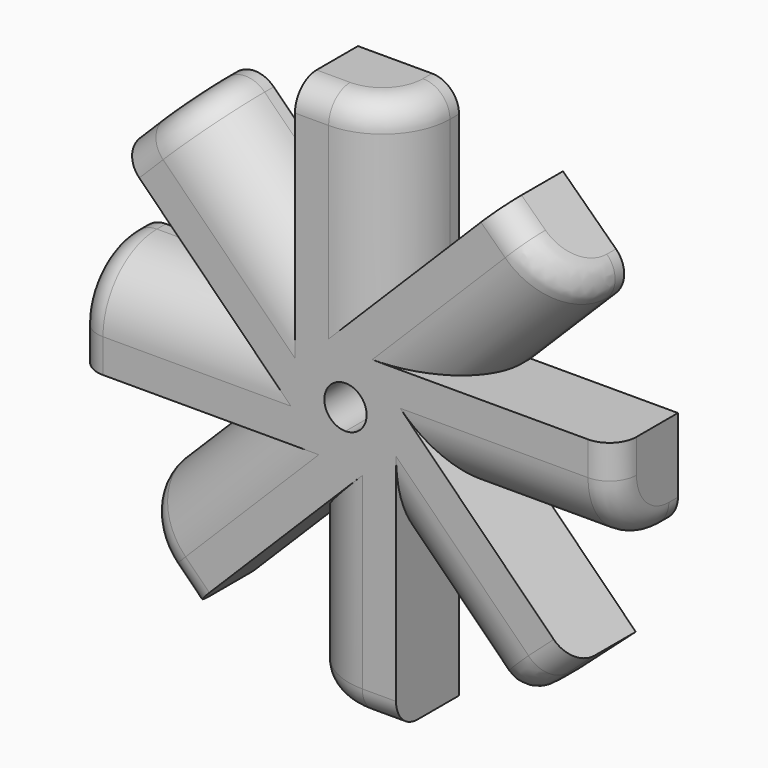
from build123d import *

# Parameters (mm, degrees)
F1_DEPTH = 5.842
F2_R     = 5
F3_R     = 2


with BuildPart() as f1:
    # F0 (on Front) → F1 (new body)
    with BuildSketch(Plane.XZ):
        Polygon((0, 5.3033008589), (3.75, 9.0533008589), (3.75, 20), (-3.75, 20), (-3.75, 9.0533008589), align=None)
        Polygon((3.75, -20), (3.75, -9.0533008589), (0, -5.3033008589), (-3.75, -9.0533008589), (-3.75, -20), align=None)
        Polygon((-3.75, 3.75), (-3.75, 9.0533008589), (-11.4148991575, 16.7182000164), (-16.7182000164, 11.4148991575), (-9.0533008589, 3.75), align=None)
        Polygon((-11.5137192974, -16.8170201563), (-3.75, -9.0533008589), (-3.75, -3.75), (-9.0533008589, -3.75), (-16.8170201563, -11.5137192974), align=None)
        Polygon((3.75, 9.0533008589), (3.75, 3.75), (9.0533008589, 3.75), (16.8634883625, 11.5601875036), (11.4672510912, 16.7705519501), align=None)
        Polygon((16.86937209, -11.5660712311), (9.0533008589, -3.75), (3.75, -3.75), (3.75, -9.0533008589), (11.2637270839, -16.5670279428), align=None)
        Polygon((-9.0533008589, -3.75), (-5.3033008589, 0), (-9.0533008589, 3.75), (-20, 3.75), (-20, -3.75), align=None)
        Polygon((9.0533008589, 3.75), (5.3033008589, 0), (9.0533008589, -3.75), (20, -3.75), (20, 3.75), align=None)
        with BuildLine():
            ThreePointArc((3.75, 3.3071891388), (4.6193976626, 1.9134171618), (4.9901862962, 0.3131145627))
            Line((4.9901862962, 0.3131145627), (5.3033008589, 0))
            Line((5.3033008589, 0), (9.0533008589, 3.75))
            Line((9.0533008589, 3.75), (3.75, 3.75))
            Line((3.75, 3.75), (3.75, 3.3071891388))
        make_face()
        with BuildLine():
            ThreePointArc((0.3131145627, 4.9901862962), (1.9134171618, 4.6193976626), (3.3071891388, 3.75))
            Line((3.3071891388, 3.75), (3.75, 3.75))
            Line((3.75, 3.75), (3.75, 9.0533008589))
            Line((3.75, 9.0533008589), (0, 5.3033008589))
            Line((0, 5.3033008589), (0.3131145627, 4.9901862962))
        make_face()
        with BuildLine():
            ThreePointArc((-3.3071891388, 3.75), (-1.9134171618, 4.6193976626), (-0.3131145627, 4.9901862962))
            Line((-0.3131145627, 4.9901862962), (0, 5.3033008589))
            Line((0, 5.3033008589), (-3.75, 9.0533008589))
            Line((-3.75, 9.0533008589), (-3.75, 3.75))
            Line((-3.75, 3.75), (-3.3071891388, 3.75))
        make_face()
        with BuildLine():
            ThreePointArc((-4.9901862962, 0.3131145627), (-4.6193976626, 1.9134171618), (-3.75, 3.3071891388))
            Line((-3.75, 3.3071891388), (-3.75, 3.75))
            Line((-3.75, 3.75), (-9.0533008589, 3.75))
            Line((-9.0533008589, 3.75), (-5.3033008589, 0))
            Line((-5.3033008589, 0), (-4.9901862962, 0.3131145627))
        make_face()
        with BuildLine():
            Line((-3.75, -3.75), (-3.75, -3.3071891388))
            ThreePointArc((-3.75, -3.3071891388), (-4.6193976626, -1.9134171618), (-4.9901862962, -0.3131145627))
            Line((-4.9901862962, -0.3131145627), (-5.3033008589, 0))
            Line((-5.3033008589, 0), (-9.0533008589, -3.75))
            Line((-9.0533008589, -3.75), (-3.75, -3.75))
        make_face()
        with BuildLine():
            Line((3.75, -3.75), (3.3071891388, -3.75))
            ThreePointArc((3.3071891388, -3.75), (1.9134171618, -4.6193976626), (0.3131145627, -4.9901862962))
            Line((0.3131145627, -4.9901862962), (0, -5.3033008589))
            Line((0, -5.3033008589), (3.75, -9.0533008589))
            Line((3.75, -9.0533008589), (3.75, -3.75))
        make_face()
        with BuildLine():
            Line((5.3033008589, 0), (4.9901862962, -0.3131145627))
            ThreePointArc((4.9901862962, -0.3131145627), (4.6193976626, -1.9134171618), (3.75, -3.3071891388))
            Line((3.75, -3.3071891388), (3.75, -3.75))
            Line((3.75, -3.75), (9.0533008589, -3.75))
            Line((9.0533008589, -3.75), (5.3033008589, 0))
        make_face()
        Polygon((0, 5.3033008589), (3.75, 9.0533008589), (3.75, 20), (-3.75, 20), (-3.75, 9.0533008589), align=None)
        Polygon((3.75, -20), (3.75, -9.0533008589), (0, -5.3033008589), (-3.75, -9.0533008589), (-3.75, -20), align=None)
        Polygon((-3.75, 3.75), (-3.75, 9.0533008589), (-11.4148991575, 16.7182000164), (-16.7182000164, 11.4148991575), (-9.0533008589, 3.75), align=None)
        Polygon((-11.5137192974, -16.8170201563), (-3.75, -9.0533008589), (-3.75, -3.75), (-9.0533008589, -3.75), (-16.8170201563, -11.5137192974), align=None)
        Polygon((3.75, 9.0533008589), (3.75, 3.75), (9.0533008589, 3.75), (16.8634883625, 11.5601875036), (11.4672510912, 16.7705519501), align=None)
        Polygon((16.86937209, -11.5660712311), (9.0533008589, -3.75), (3.75, -3.75), (3.75, -9.0533008589), (11.2637270839, -16.5670279428), align=None)
        Polygon((-9.0533008589, -3.75), (-5.3033008589, 0), (-9.0533008589, 3.75), (-20, 3.75), (-20, -3.75), align=None)
        Polygon((9.0533008589, 3.75), (5.3033008589, 0), (9.0533008589, -3.75), (20, -3.75), (20, 3.75), align=None)
        with BuildLine():
            ThreePointArc((3.75, 3.3071891388), (4.6193976626, 1.9134171618), (4.9901862962, 0.3131145627))
            Line((4.9901862962, 0.3131145627), (5.3033008589, 0))
            Line((5.3033008589, 0), (9.0533008589, 3.75))
            Line((9.0533008589, 3.75), (3.75, 3.75))
            Line((3.75, 3.75), (3.75, 3.3071891388))
        make_face()
        with BuildLine():
            ThreePointArc((0.3131145627, 4.9901862962), (1.9134171618, 4.6193976626), (3.3071891388, 3.75))
            Line((3.3071891388, 3.75), (3.75, 3.75))
            Line((3.75, 3.75), (3.75, 9.0533008589))
            Line((3.75, 9.0533008589), (0, 5.3033008589))
            Line((0, 5.3033008589), (0.3131145627, 4.9901862962))
        make_face()
        with BuildLine():
            ThreePointArc((-3.3071891388, 3.75), (-1.9134171618, 4.6193976626), (-0.3131145627, 4.9901862962))
            Line((-0.3131145627, 4.9901862962), (0, 5.3033008589))
            Line((0, 5.3033008589), (-3.75, 9.0533008589))
            Line((-3.75, 9.0533008589), (-3.75, 3.75))
            Line((-3.75, 3.75), (-3.3071891388, 3.75))
        make_face()
        with BuildLine():
            ThreePointArc((-4.9901862962, 0.3131145627), (-4.6193976626, 1.9134171618), (-3.75, 3.3071891388))
            Line((-3.75, 3.3071891388), (-3.75, 3.75))
            Line((-3.75, 3.75), (-9.0533008589, 3.75))
            Line((-9.0533008589, 3.75), (-5.3033008589, 0))
            Line((-5.3033008589, 0), (-4.9901862962, 0.3131145627))
        make_face()
        with BuildLine():
            Line((-3.75, -3.75), (-3.75, -3.3071891388))
            ThreePointArc((-3.75, -3.3071891388), (-4.6193976626, -1.9134171618), (-4.9901862962, -0.3131145627))
            Line((-4.9901862962, -0.3131145627), (-5.3033008589, 0))
            Line((-5.3033008589, 0), (-9.0533008589, -3.75))
            Line((-9.0533008589, -3.75), (-3.75, -3.75))
        make_face()
        with BuildLine():
            Line((0, -5.3033008589), (-0.3131145627, -4.9901862962))
            ThreePointArc((-0.3131145627, -4.9901862962), (-1.9134171618, -4.6193976626), (-3.3071891388, -3.75))
            Line((-3.3071891388, -3.75), (-3.75, -3.75))
            Line((-3.75, -3.75), (-3.75, -9.0533008589))
            Line((-3.75, -9.0533008589), (0, -5.3033008589))
        make_face()
        with BuildLine():
            Line((3.75, -3.75), (3.3071891388, -3.75))
            ThreePointArc((3.3071891388, -3.75), (1.9134171618, -4.6193976626), (0.3131145627, -4.9901862962))
            Line((0.3131145627, -4.9901862962), (0, -5.3033008589))
            Line((0, -5.3033008589), (3.75, -9.0533008589))
            Line((3.75, -9.0533008589), (3.75, -3.75))
        make_face()
        with BuildLine():
            Line((5.3033008589, 0), (4.9901862962, -0.3131145627))
            ThreePointArc((4.9901862962, -0.3131145627), (4.6193976626, -1.9134171618), (3.75, -3.3071891388))
            Line((3.75, -3.3071891388), (3.75, -3.75))
            Line((3.75, -3.75), (9.0533008589, -3.75))
            Line((9.0533008589, -3.75), (5.3033008589, 0))
        make_face()
        with BuildLine():
            ThreePointArc((-4.9901862962, 0.3131145627), (-4.6193976626, 1.9134171618), (-3.75, 3.3071891388))
            Line((-3.75, 3.3071891388), (-3.75, 3.75))
            Line((-3.75, 3.75), (-9.0533008589, 3.75))
            Line((-9.0533008589, 3.75), (-5.3033008589, 0))
            Line((-5.3033008589, 0), (-4.9901862962, 0.3131145627))
        make_face()
        with BuildLine():
            Line((-3.75, -3.3071891388), (-3.75, -1.5533008589))
            Line((-3.75, -1.5533008589), (-4.9901862962, -0.3131145627))
            ThreePointArc((-4.9901862962, -0.3131145627), (-4.6193976626, -1.9134171618), (-3.75, -3.3071891388))
        make_face()
        with BuildLine():
            ThreePointArc((-3.3071891388, 3.75), (-1.9134171618, 4.6193976626), (-0.3131145627, 4.9901862962))
            Line((-0.3131145627, 4.9901862962), (0, 5.3033008589))
            Line((0, 5.3033008589), (-3.75, 9.0533008589))
            Line((-3.75, 9.0533008589), (-3.75, 3.75))
            Line((-3.75, 3.75), (-3.3071891388, 3.75))
        make_face()
        with BuildLine():
            ThreePointArc((0.3131145627, 4.9901862962), (1.9134171618, 4.6193976626), (3.3071891388, 3.75))
            Line((3.3071891388, 3.75), (3.75, 3.75))
            Line((3.75, 3.75), (3.75, 9.0533008589))
            Line((3.75, 9.0533008589), (0, 5.3033008589))
            Line((0, 5.3033008589), (0.3131145627, 4.9901862962))
        make_face()
        with BuildLine():
            Line((-1.5533008589, 3.75), (1.5533008589, 3.75))
            Line((1.5533008589, 3.75), (0.3131145627, 4.9901862962))
            ThreePointArc((0.3131145627, 4.9901862962), (0, 5), (-0.3131145627, 4.9901862962))
            Line((-0.3131145627, 4.9901862962), (-1.5533008589, 3.75))
        make_face()
        with BuildLine():
            ThreePointArc((4.9901862962, -0.3131145627), (4.9975459718, -0.1566341583), (5, 0))
            ThreePointArc((5, 0), (4.9975459718, 0.1566341583), (4.9901862962, 0.3131145627))
            Line((4.9901862962, 0.3131145627), (3.75, 1.5533008589))
            Line((3.75, 1.5533008589), (3.75, -1.5533008589))
            Line((3.75, -1.5533008589), (4.9901862962, -0.3131145627))
        make_face()
        with BuildLine():
            Line((-3.75, -1.5533008589), (-3.75, 1.5533008589))
            Line((-3.75, 1.5533008589), (-4.9901862962, 0.3131145627))
            ThreePointArc((-4.9901862962, 0.3131145627), (-5, 0), (-4.9901862962, -0.3131145627))
            Line((-4.9901862962, -0.3131145627), (-3.75, -1.5533008589))
        make_face()
        with BuildLine():
            Line((3.75, -3.75), (3.3071891388, -3.75))
            ThreePointArc((3.3071891388, -3.75), (1.9134171618, -4.6193976626), (0.3131145627, -4.9901862962))
            Line((0.3131145627, -4.9901862962), (0, -5.3033008589))
            Line((0, -5.3033008589), (3.75, -9.0533008589))
            Line((3.75, -9.0533008589), (3.75, -3.75))
        make_face()
        with BuildLine():
            Line((0, -5.3033008589), (0.3131145627, -4.9901862962))
            ThreePointArc((0.3131145627, -4.9901862962), (0, -5), (-0.3131145627, -4.9901862962))
            Line((-0.3131145627, -4.9901862962), (0, -5.3033008589))
        make_face()
        with BuildLine():
            ThreePointArc((-3.75, 3.3071891388), (-3.5355339059, 3.5355339059), (-3.3071891388, 3.75))
            Line((-3.3071891388, 3.75), (-3.75, 3.75))
            Line((-3.75, 3.75), (-3.75, 3.3071891388))
        make_face()
        Polygon((3.75, -1.5533008589), (3.75, 1.5533008589), (1.5533008589, 3.75), (-1.5533008589, 3.75), (-3.75, 1.5533008589), (-3.75, -1.5533008589), (-1.5533008589, -3.75), (1.5533008589, -3.75), align=None)
        with BuildLine():
            ThreePointArc((0, 1.56845), (1.109061631, 1.109061631), (1.56845, 0))
            ThreePointArc((1.56845, 0), (1.109061631, -1.109061631), (0, -1.56845))
            ThreePointArc((0, -1.56845), (-1.56845, 0), (0, 1.56845))
        make_face(mode=Mode.SUBTRACT)
        with BuildLine():
            Line((-3.3071891388, -3.75), (-1.5533008589, -3.75))
            Line((-1.5533008589, -3.75), (-3.75, -1.5533008589))
            Line((-3.75, -1.5533008589), (-3.75, -3.3071891388))
            ThreePointArc((-3.75, -3.3071891388), (-3.5355339059, -3.5355339059), (-3.3071891388, -3.75))
        make_face()
        with BuildLine():
            ThreePointArc((3.75, 3.3071891388), (4.6193976626, 1.9134171618), (4.9901862962, 0.3131145627))
            Line((4.9901862962, 0.3131145627), (5.3033008589, 0))
            Line((5.3033008589, 0), (9.0533008589, 3.75))
            Line((9.0533008589, 3.75), (3.75, 3.75))
            Line((3.75, 3.75), (3.75, 3.3071891388))
        make_face()
        Polygon((3.75, -1.5533008589), (3.75, 1.5533008589), (1.5533008589, 3.75), (-1.5533008589, 3.75), (-3.75, 1.5533008589), (-3.75, -1.5533008589), (-1.5533008589, -3.75), (1.5533008589, -3.75), align=None)
        with BuildLine():
            ThreePointArc((0, 1.56845), (1.109061631, 1.109061631), (1.56845, 0))
            ThreePointArc((1.56845, 0), (1.109061631, -1.109061631), (0, -1.56845))
            ThreePointArc((0, -1.56845), (-1.56845, 0), (0, 1.56845))
        make_face(mode=Mode.SUBTRACT)
        with BuildLine():
            ThreePointArc((3.3071891388, -3.75), (3.5355339059, -3.5355339059), (3.75, -3.3071891388))
            Line((3.75, -3.3071891388), (3.75, -1.5533008589))
            Line((3.75, -1.5533008589), (1.5533008589, -3.75))
            Line((1.5533008589, -3.75), (3.3071891388, -3.75))
        make_face()
        with BuildLine():
            ThreePointArc((3.3071891388, 3.75), (3.5355339059, 3.5355339059), (3.75, 3.3071891388))
            Line((3.75, 3.3071891388), (3.75, 3.75))
            Line((3.75, 3.75), (3.3071891388, 3.75))
        make_face()
        with BuildLine():
            ThreePointArc((3.75, -3.3071891388), (4.6193976626, -1.9134171618), (4.9901862962, -0.3131145627))
            Line((4.9901862962, -0.3131145627), (3.75, -1.5533008589))
            Line((3.75, -1.5533008589), (3.75, -3.3071891388))
        make_face()
        with BuildLine():
            Line((0.3131145627, -4.9901862962), (1.5533008589, -3.75))
            Line((1.5533008589, -3.75), (-1.5533008589, -3.75))
            Line((-1.5533008589, -3.75), (-0.3131145627, -4.9901862962))
            ThreePointArc((-0.3131145627, -4.9901862962), (0, -5), (0.3131145627, -4.9901862962))
        make_face()
        with BuildLine():
            ThreePointArc((3.75, -3.3071891388), (4.6193976626, -1.9134171618), (4.9901862962, -0.3131145627))
            Line((4.9901862962, -0.3131145627), (3.75, -1.5533008589))
            Line((3.75, -1.5533008589), (3.75, -3.3071891388))
        make_face()
        with BuildLine():
            Line((-3.75, 1.5533008589), (-1.5533008589, 3.75))
            Line((-1.5533008589, 3.75), (-3.3071891388, 3.75))
            ThreePointArc((-3.3071891388, 3.75), (-3.5355339059, 3.5355339059), (-3.75, 3.3071891388))
            Line((-3.75, 3.3071891388), (-3.75, 1.5533008589))
        make_face()
        with BuildLine():
            Line((-4.9901862962, 0.3131145627), (-3.75, 1.5533008589))
            Line((-3.75, 1.5533008589), (-3.75, 3.3071891388))
            ThreePointArc((-3.75, 3.3071891388), (-4.6193976626, 1.9134171618), (-4.9901862962, 0.3131145627))
        make_face()
        with BuildLine():
            Line((-3.3071891388, 3.75), (-1.5533008589, 3.75))
            Line((-1.5533008589, 3.75), (-0.3131145627, 4.9901862962))
            ThreePointArc((-0.3131145627, 4.9901862962), (-1.9134171618, 4.6193976626), (-3.3071891388, 3.75))
        make_face()
        with BuildLine():
            Line((-0.3131145627, -4.9901862962), (-1.5533008589, -3.75))
            Line((-1.5533008589, -3.75), (-3.3071891388, -3.75))
            ThreePointArc((-3.3071891388, -3.75), (-1.9134171618, -4.6193976626), (-0.3131145627, -4.9901862962))
        make_face()
        with BuildLine():
            ThreePointArc((0.3131145627, -4.9901862962), (1.9134171618, -4.6193976626), (3.3071891388, -3.75))
            Line((3.3071891388, -3.75), (1.5533008589, -3.75))
            Line((1.5533008589, -3.75), (0.3131145627, -4.9901862962))
        make_face()
        with BuildLine():
            Line((3.75, 1.5533008589), (3.75, 3.3071891388))
            ThreePointArc((3.75, 3.3071891388), (3.5355339059, 3.5355339059), (3.3071891388, 3.75))
            Line((3.3071891388, 3.75), (1.5533008589, 3.75))
            Line((1.5533008589, 3.75), (3.75, 1.5533008589))
        make_face()
        with BuildLine():
            Line((1.5533008589, 3.75), (3.3071891388, 3.75))
            ThreePointArc((3.3071891388, 3.75), (1.9134171618, 4.6193976626), (0.3131145627, 4.9901862962))
            Line((0.3131145627, 4.9901862962), (1.5533008589, 3.75))
        make_face()
        with BuildLine():
            Line((3.75, 1.5533008589), (4.9901862962, 0.3131145627))
            ThreePointArc((4.9901862962, 0.3131145627), (4.6193976626, 1.9134171618), (3.75, 3.3071891388))
            Line((3.75, 3.3071891388), (3.75, 1.5533008589))
        make_face()
        with BuildLine():
            ThreePointArc((-4.9901862962, -0.3131145627), (-5, 0), (-4.9901862962, 0.3131145627))
            Line((-4.9901862962, 0.3131145627), (-5.3033008589, 0))
            Line((-5.3033008589, 0), (-4.9901862962, -0.3131145627))
        make_face()
        with BuildLine():
            ThreePointArc((-0.3131145627, 4.9901862962), (0, 5), (0.3131145627, 4.9901862962))
            Line((0.3131145627, 4.9901862962), (0, 5.3033008589))
            Line((0, 5.3033008589), (-0.3131145627, 4.9901862962))
        make_face()
        with BuildLine():
            ThreePointArc((4.9901862962, 0.3131145627), (4.9975459718, 0.1566341583), (5, 0))
            ThreePointArc((5, 0), (4.9975459718, -0.1566341583), (4.9901862962, -0.3131145627))
            Line((4.9901862962, -0.3131145627), (5.3033008589, 0))
            Line((5.3033008589, 0), (4.9901862962, 0.3131145627))
        make_face()
        with BuildLine():
            Line((3.75, -3.75), (3.75, -3.3071891388))
            ThreePointArc((3.75, -3.3071891388), (3.5355339059, -3.5355339059), (3.3071891388, -3.75))
            Line((3.3071891388, -3.75), (3.75, -3.75))
        make_face()
        with BuildLine():
            Line((-3.75, -3.75), (-3.3071891388, -3.75))
            ThreePointArc((-3.3071891388, -3.75), (-3.5355339059, -3.5355339059), (-3.75, -3.3071891388))
            Line((-3.75, -3.3071891388), (-3.75, -3.75))
        make_face()
    extrude(amount=F1_DEPTH)

    # F2
    f2_edges = [f1.edges().sort_by_distance(p)[0] for p in [
        (-7.58245, -5.842, 12.88575),
        (3.75, -5.842, 14.52665),
        (12.958395, -5.842, 7.655094),
        (14.52665, -5.842, -3.75),
        (7.506864, -5.842, -12.810164),
        (-3.75, -5.842, -14.52665),
        (-12.935161, -5.842, -7.63186),
        (-14.52665, -5.842, 3.75),
    ]]
    fillet(f2_edges, radius=F2_R)

    # F3
    f3_edges = [f1.edges().sort_by_distance(p)[0] for p in [
        (-2.5, -5.842, 20),
        (2.285534, -4.377534, 20),
        (12.366624, -5.842, 15.902158),
        (15.80971, -4.37767, 12.577669),
        (20, -5.842, 2.5),
        (20, -4.377534, -2.285534),
        (-12.450433, -4.377534, 15.682666),
        (-15.834317, -5.842, 12.298783),
        (-20, -5.842, -2.5),
        (-20, -4.377534, 2.285534),
        (-12.397603, -5.842, -15.933137),
        (-15.781486, -4.377534, -12.549253),
        (-2.285534, -4.377534, -20),
        (2.5, -5.842, -20),
        (15.935098, -5.842, -12.399564),
        (12.359369, -4.378968, -15.589574),
    ]]
    fillet(f3_edges, radius=F3_R)


solid = f1.part
